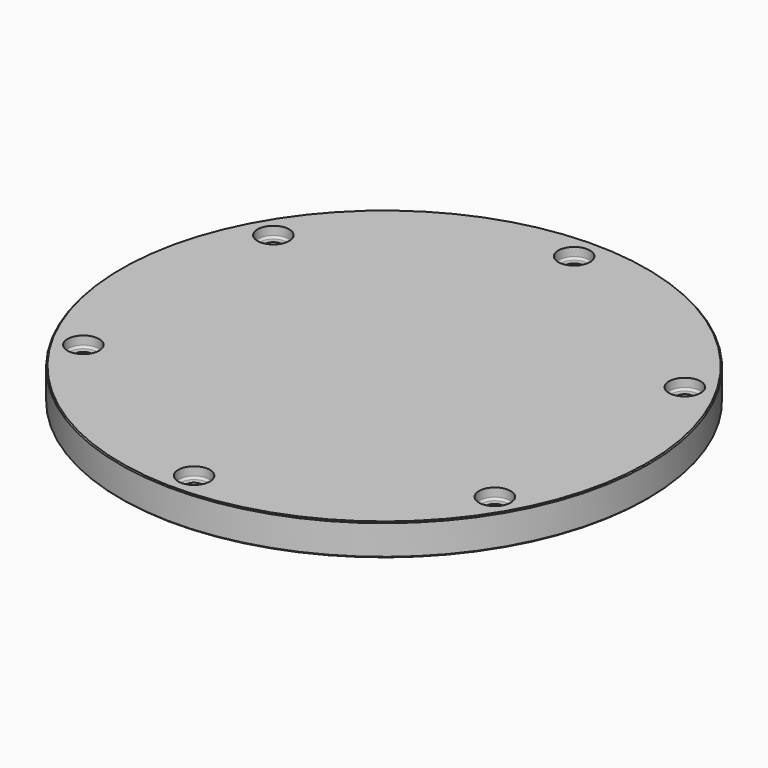
from build123d import *

# Parameters (mm, degrees)
F0_R     = 125
F1_DEPTH = 10
F2_R     = 125
F2_R_2   = 7.5
F3_DEPTH = 5
F4_R     = 4
F5_DEPTH = 15.001
F6_SIZE  = 0.5
F7_R     = 1


with BuildPart() as f1:
    # F0 (on Top) → F1 (new body)
    with BuildSketch(Plane.XY):
        Circle(F0_R)
    extrude(amount=F1_DEPTH)

    # F2 (on face) → F3 (join)
    with BuildSketch(Plane.XY.offset(10)):
        Circle(F2_R)
        with Locations((-97.427858, -56.25)):
            Circle(F2_R_2, mode=Mode.SUBTRACT)
        with Locations((0, -112.5)):
            Circle(F2_R_2, mode=Mode.SUBTRACT)
        with Locations((97.427858, -56.25)):
            Circle(F2_R_2, mode=Mode.SUBTRACT)
        with Locations((-97.427858, 56.25)):
            Circle(F2_R_2, mode=Mode.SUBTRACT)
        with Locations((97.427858, 56.25)):
            Circle(F2_R_2, mode=Mode.SUBTRACT)
        with Locations((0, 112.5)):
            Circle(F2_R_2, mode=Mode.SUBTRACT)
    extrude(amount=F3_DEPTH)

    # F4 (on face) → F5 (cut, through all)
    with BuildSketch(Plane.XY.offset(15)):
        with Locations((-97.427858, 56.25)):
            Circle(F4_R)
        with Locations((0, 112.5)):
            Circle(F4_R)
        with Locations((97.427858, 56.25)):
            Circle(F4_R)
        with Locations((97.427858, -56.25)):
            Circle(F4_R)
        with Locations((0, -112.5)):
            Circle(F4_R)
        with Locations((-97.427858, -56.25)):
            Circle(F4_R)
    extrude(amount=-F5_DEPTH, mode=Mode.SUBTRACT)

    # F6
    f6_edges = [f1.edges().sort_by_distance(p)[0] for p in [
        (-125, 0, 0),
        (125, 0, 7.5),
        (-125, 0, 15),
    ]]
    chamfer(f6_edges, length=F6_SIZE)

    # F7
    f7_edges = [f1.edges().sort_by_distance(p)[0] for p in [
        (-104.927858, 56.25, 10),
        (-7.5, 112.5, 10),
        (89.927858, 56.25, 10),
        (89.927858, -56.25, 10),
        (-7.5, -112.5, 10),
        (-104.927858, -56.25, 10),
    ]]
    fillet(f7_edges, radius=F7_R)


solid = f1.part
